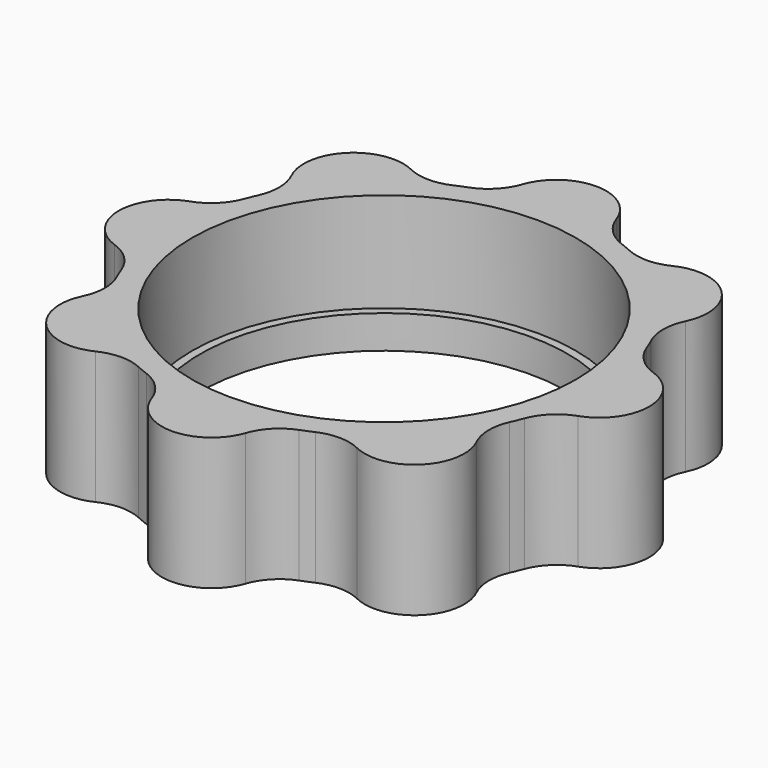
from build123d import *

# Parameters (mm, degrees)
F0_R     = 27.7
F1_DEPTH = 20
F2_R     = 28.95
F3_DEPTH = 15


with BuildPart() as f1:
    # F0 (on Top) → F1 (new body)
    with BuildSketch(Plane.XY):
        with BuildLine():
            ThreePointArc((-7.087882, 34.951923), (-8.795551, 32.17859), (-11.517808, 30.390625))
            ThreePointArc((-11.517808, 30.390625), (-12.437212, 30.026085), (-13.345097, 29.633738))
            ThreePointArc((-13.345097, 29.633738), (-16.534306, 28.973093), (-19.702852, 29.726631))
            ThreePointArc((-19.702852, 29.726631), (-28.284271, 28.284271), (-29.726631, 19.702852))
            ThreePointArc((-29.726631, 19.702852), (-28.973093, 16.534306), (-29.633738, 13.345097))
            ThreePointArc((-29.633738, 13.345097), (-30.026085, 12.437212), (-30.390625, 11.517808))
            ThreePointArc((-30.390625, 11.517808), (-32.17859, 8.795551), (-34.951923, 7.087882))
            ThreePointArc((-34.951923, 7.087882), (-40, 0), (-34.951923, -7.087882))
            ThreePointArc((-34.951923, -7.087882), (-32.17859, -8.795551), (-30.390625, -11.517808))
            ThreePointArc((-30.390625, -11.517808), (-30.026085, -12.437212), (-29.633738, -13.345097))
            ThreePointArc((-29.633738, -13.345097), (-28.973093, -16.534306), (-29.726631, -19.702852))
            ThreePointArc((-29.726631, -19.702852), (-28.284271, -28.284271), (-19.702852, -29.726631))
            ThreePointArc((-19.702852, -29.726631), (-16.534306, -28.973093), (-13.345097, -29.633738))
            ThreePointArc((-13.345097, -29.633738), (-12.437212, -30.026085), (-11.517808, -30.390625))
            ThreePointArc((-11.517808, -30.390625), (-8.795551, -32.17859), (-7.087882, -34.951923))
            ThreePointArc((-7.087882, -34.951923), (0, -40), (7.087882, -34.951923))
            ThreePointArc((7.087882, -34.951923), (8.795551, -32.17859), (11.517808, -30.390625))
            ThreePointArc((11.517808, -30.390625), (12.437212, -30.026085), (13.345097, -29.633738))
            ThreePointArc((13.345097, -29.633738), (16.534306, -28.973093), (19.702852, -29.726631))
            ThreePointArc((19.702852, -29.726631), (28.284271, -28.284271), (29.726631, -19.702852))
            ThreePointArc((29.726631, -19.702852), (28.973093, -16.534306), (29.633738, -13.345097))
            ThreePointArc((29.633738, -13.345097), (30.026085, -12.437212), (30.390625, -11.517808))
            ThreePointArc((30.390625, -11.517808), (32.17859, -8.795551), (34.951923, -7.087882))
            ThreePointArc((34.951923, -7.087882), (40, 0), (34.951923, 7.087882))
            ThreePointArc((34.951923, 7.087882), (32.17859, 8.795551), (30.390625, 11.517808))
            ThreePointArc((30.390625, 11.517808), (30.026085, 12.437212), (29.633738, 13.345097))
            ThreePointArc((29.633738, 13.345097), (28.973093, 16.534306), (29.726631, 19.702852))
            ThreePointArc((29.726631, 19.702852), (28.284271, 28.284271), (19.702852, 29.726631))
            ThreePointArc((19.702852, 29.726631), (16.534306, 28.973093), (13.345097, 29.633738))
            ThreePointArc((13.345097, 29.633738), (12.437212, 30.026085), (11.517808, 30.390625))
            ThreePointArc((11.517808, 30.390625), (8.795551, 32.17859), (7.087882, 34.951923))
            ThreePointArc((7.087882, 34.951923), (0, 40), (-7.087882, 34.951923))
        make_face()
        Circle(F0_R, mode=Mode.SUBTRACT)
    extrude(amount=F1_DEPTH)

    # F2 (on face) → F3 (cut)
    with BuildSketch(Plane.XY.offset(20)):
        Circle(F2_R)
    extrude(amount=-F3_DEPTH, mode=Mode.SUBTRACT)


solid = f1.part
